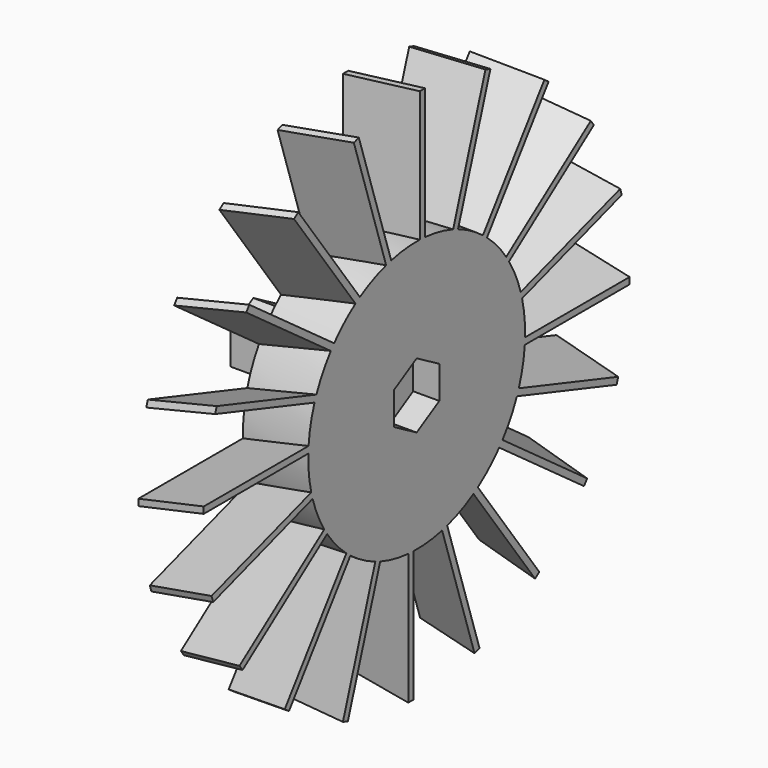
from build123d import *

# Parameters (mm, degrees)
SKETCH_R           = 10.375
PAD_DEPTH          = 5
POCKET_DEPTH       = 2
PAD001_DEPTH       = 10
PAD001_DEPTH_BACK  = 1
POLARPATTERN_COUNT = 20
SKETCH003_R        = 2.5
PAD002_DEPTH       = 5
PAD003_DEPTH       = 2.5


with BuildPart() as part:
    # Sketch → Pad (new body)
    with BuildSketch(Plane.YZ):
        Circle(SKETCH_R)
    extrude(amount=PAD_DEPTH)

    # Sketch001 (on Face3 of Pad) → Pocket (cut)
    with BuildSketch(Plane.YZ.offset(5)):
        Polygon((2.165064, 1.25), (0, 2.5), (-2.165064, 1.25), (-2.165064, -1.25), (0, -2.5), (2.165064, -1.25), align=None)
    extrude(amount=-POCKET_DEPTH, mode=Mode.SUBTRACT)

    # Sketch002 (on DatumPlane) → Pad001 (join, two sides)
    with BuildSketch(Plane.ZX.offset(10.375)) as pad001_sk:
        Polygon((0.8, 0), (-0.3, 5), (-0.8, 5), (0.3, 0), align=None)
    pad001 = extrude(amount=PAD001_DEPTH) + extrude(pad001_sk.sketch, amount=-PAD001_DEPTH_BACK)

    # PolarPattern: Pad001 ×20 about axis
    polarpattern_axis = Axis((0, 0, 0), (1, 0, 0))
    for i in range(1, POLARPATTERN_COUNT):
        add(pad001.rotate(polarpattern_axis, i * 360 / POLARPATTERN_COUNT))

    # Sketch003 (on Face2 of PolarPattern) → Pad002 (join)
    with BuildSketch(Plane(origin=(0, 0, 0), x_dir=(0, 1, 0), z_dir=(-1, 0, 0))):
        Circle(SKETCH003_R)
    extrude(amount=PAD002_DEPTH)

    # Sketch004 (on Face108 of Pad002) → Pad003 (join)
    with BuildSketch(Plane(origin=(-5, 0, 0), x_dir=(0, 1, 0), z_dir=(-1, 0, 0))):
        Polygon((2.165064, 1.25), (0, 2.5), (-2.165064, 1.25), (-2.165064, -1.25), (0, -2.5), (2.165064, -1.25), align=None)
    extrude(amount=PAD003_DEPTH)


solid = part.part
